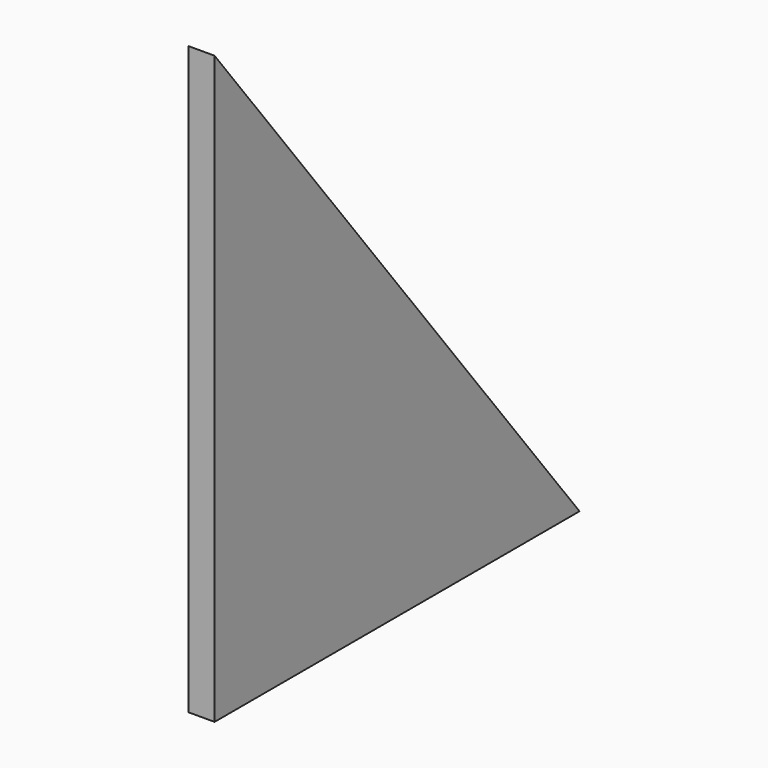
from build123d import *

# Parameters (mm, degrees)
EXTRUDE002_DEPTH = 2
SKETCH003_W      = 2
SKETCH003_H      = 35
EXTRUDE001_DEPTH = 45


with BuildPart() as extrude002:
    # Sketch004 (on Face1 of CopyExtrude001) → Extrude002 (new body)
    with BuildSketch(Plane(origin=(0, 0, 0), x_dir=(0, -1, 0), z_dir=(-1, 0, 0))):
        Polygon((-45, 5), (-10, 50), (-45, 50), align=None)
    extrude(amount=-EXTRUDE002_DEPTH)


with BuildPart() as cut001:
    # Sketch003 (on Face1 of CopyCut) → Extrude001 (new body)
    with BuildSketch(Plane.XY.offset(5)):
        with Locations((1, 27.5)):
            Rectangle(SKETCH003_W, SKETCH003_H)
    extrude(amount=EXTRUDE001_DEPTH)

    # Cut001: cut Extrude002
    add(extrude002.part, mode=Mode.SUBTRACT)


solid = cut001.part
